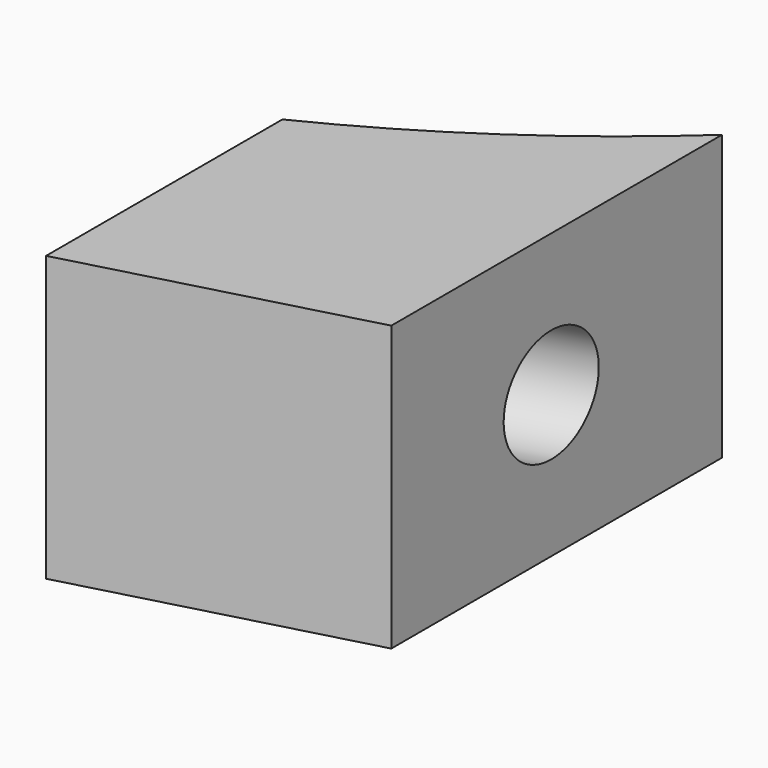
from build123d import *

# Parameters (mm, degrees)
CYLINDER018_R               = 2
CYLINDER018_DEPTH           = 18
CYLINDER018_PITCH_ANGLE     = 90
CYLINDER018_PLACEMENT_ANGLE = 17
BOX022_W                    = 65
BOX022_H                    = 11
BOX022_DEPTH                = 20
BOX022_PLACEMENT_ANGLE      = 15
CYLINDER017_R               = 43
CYLINDER017_DEPTH           = 19
BOX020_W                    = 10
BOX020_H                    = 21
BOX020_DEPTH                = 10


with BuildPart() as cylinder018:
    # Cylinder018 → Cylinder018 (new body)
    with BuildSketch(Plane.XY):
        Circle(CYLINDER018_R)
    extrude(amount=CYLINDER018_DEPTH)


with BuildPart() as cylinder018_1:
    # Cylinder018 pitch: moved
    add(cylinder018.part.rotate(Axis((0, 0, 0), (0, 1, 0)), CYLINDER018_PITCH_ANGLE))


with BuildPart() as cylinder018_2:
    # Cylinder018 placement: moved
    add(cylinder018_1.part.moved(Location((146.075979, 19.182766, 10))).rotate(Axis((146.075979, 19.182766, 10), (0, 0, 1)), CYLINDER018_PLACEMENT_ANGLE))


with BuildPart() as cube022:
    # Box022 → Box022 (new body)
    with BuildSketch(Plane.XY):
        with Locations((32.5, 5.5)):
            Rectangle(BOX022_W, BOX022_H)
    extrude(amount=BOX022_DEPTH)


with BuildPart() as cube022_1:
    # Box022 placement: moved
    add(cube022.part.moved(Location((115, -7, 0))).rotate(Axis((115, -7, 0), (0, 0, 1)), BOX022_PLACEMENT_ANGLE))


with BuildPart() as cylinder017:
    # Cylinder017 → Cylinder017 (new body)
    with BuildSketch(Plane(origin=(132, 63, 0), x_dir=(1, 0, 0), z_dir=(0, 0, 1))):
        Circle(CYLINDER017_R)
    extrude(amount=CYLINDER017_DEPTH)


with BuildPart() as cut028:
    # Box020 → Box020 (new body)
    with BuildSketch(Plane(origin=(151, 12, 5), x_dir=(1, 0, 0), z_dir=(0, 0, 1))):
        with Locations((5, 10.5)):
            Rectangle(BOX020_W, BOX020_H)
    extrude(amount=BOX020_DEPTH)

    # Cut026: cut Cylinder017
    add(cylinder017.part, mode=Mode.SUBTRACT)

    # Cut027: cut Cube022
    add(cube022_1.part, mode=Mode.SUBTRACT)

    # Cut028: cut Cylinder018
    add(cylinder018_2.part, mode=Mode.SUBTRACT)


solid = cut028.part
